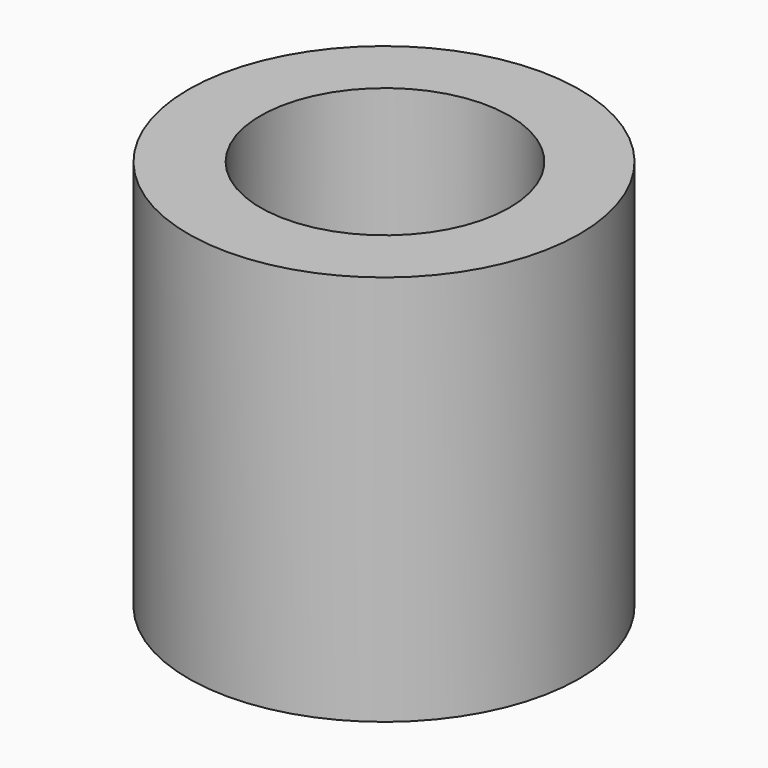
from build123d import *

# Parameters (mm, degrees)
F0_R     = 2.75
F0_R_2   = 1.75
F1_DEPTH = 5.5


with BuildPart() as f1:
    # F0 (on Top) → F1 (new body)
    with BuildSketch(Plane.XY):
        with Locations((-0.00772, -0.007956)):
            Circle(F0_R)
        Circle(F0_R_2, mode=Mode.SUBTRACT)
        with Locations((-0.00772, -0.007956)):
            Circle(F0_R)
        Circle(F0_R_2, mode=Mode.SUBTRACT)
    extrude(amount=F1_DEPTH)


solid = f1.part
